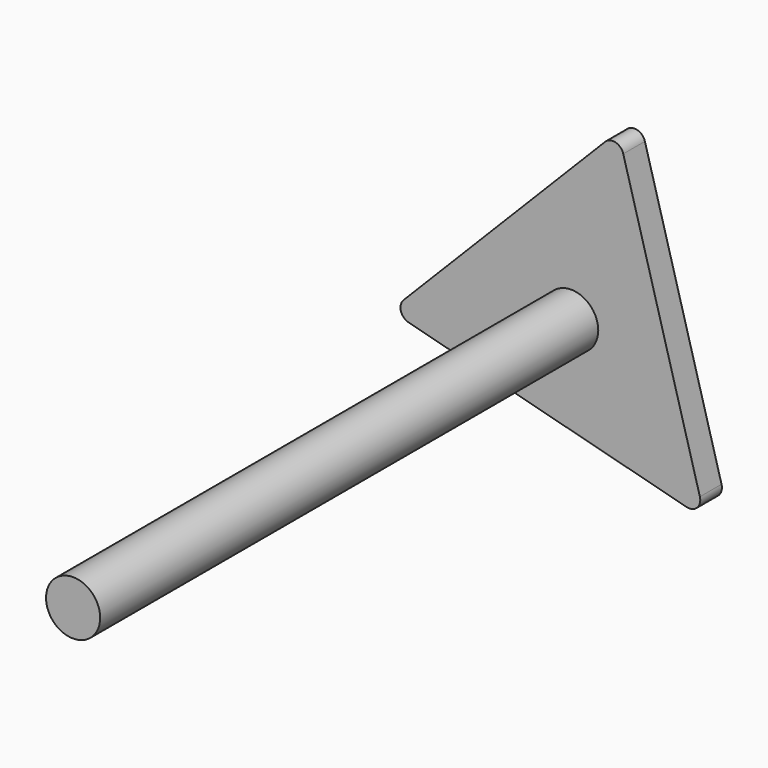
from build123d import *

# Parameters (mm, degrees)
F0_R     = 12.7
F1_DEPTH = 304.8
F2_DEPTH = 12.7
F3_R     = 5.08


with BuildPart() as f1:
    # F0 (on Front) → F1 (new body)
    with BuildSketch(Plane.XZ):
        Circle(F0_R)
    extrude(amount=F1_DEPTH)

    # F0 (on Front) → F2 (join)
    with BuildSketch(Plane.XZ):
        Polygon((62.721773, -61.708178), (22.079963, 85.172738), (-84.801736, -23.46456), align=None)
        Circle(F0_R, mode=Mode.SUBTRACT)
    extrude(amount=F2_DEPTH)

    # F3
    f3_edges = [f1.edges().sort_by_distance(p)[0] for p in [
        (-84.801736, -6.35, -23.46456),
        (22.079963, -6.35, 85.172738),
        (62.721773, -6.35, -61.708178),
    ]]
    fillet(f3_edges, radius=F3_R)


solid = f1.part
